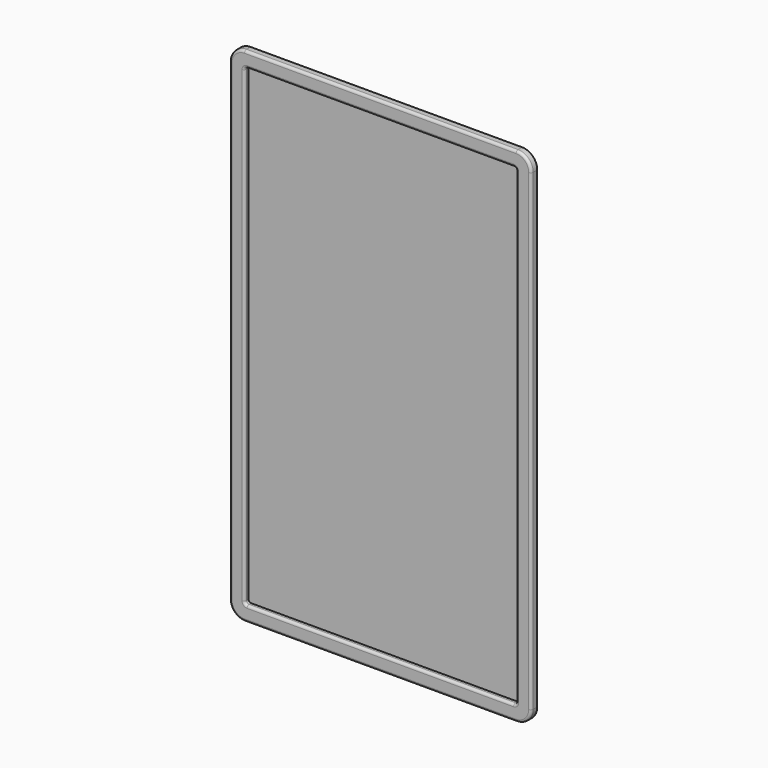
from build123d import *

# Parameters (mm, degrees)
F0_W     = 600
F0_H     = 1000
F1_DEPTH = 15
F2_W     = 540
F2_H     = 940
F3_DEPTH = 10
F4_R     = 30
F5_R     = 5
F6_R     = 5


with BuildPart() as f1:
    # F0 (on Front) → F1 (new body)
    with BuildSketch(Plane.XZ):
        with Locations((300, 500)):
            Rectangle(F0_W, F0_H)
    extrude(amount=F1_DEPTH)

    # F2 (on face) → F3 (cut)
    with BuildSketch(Plane.XZ.offset(15)):
        with Locations((300, 500)):
            Rectangle(F2_W, F2_H)
    extrude(amount=-F3_DEPTH, mode=Mode.SUBTRACT)

    # F4
    f4_edges = [f1.edges().sort_by_distance(p)[0] for p in [
        (0, -7.5, 1000),
        (600, -7.5, 1000),
        (600, -7.5, 0),
        (0, -7.5, 0),
    ]]
    fillet(f4_edges, radius=F4_R)

    # F5
    f5_edges = [f1.edges().sort_by_distance(p)[0] for p in [
        (30, -10, 30),
        (570, -10, 30),
        (570, -10, 970),
        (30, -10, 970),
    ]]
    fillet(f5_edges, radius=F5_R)

    # F6
    f6_edges = [f1.edges().sort_by_distance(p)[0] for p in [
        (570, -15, 500),
        (568.535534, -15, 31.464466),
        (568.535534, -15, 968.535534),
        (300, -15, 30),
        (300, -15, 970),
        (31.464466, -15, 31.464466),
        (31.464466, -15, 968.535534),
        (30, -15, 500),
        (0, -15, 500),
        (8.786797, -15, 991.213203),
        (8.786797, -15, 8.786797),
        (300, -15, 1000),
        (300, -15, 0),
        (591.213203, -15, 991.213203),
        (591.213203, -15, 8.786797),
        (600, -15, 500),
    ]]
    fillet(f6_edges, radius=F6_R)


solid = f1.part
